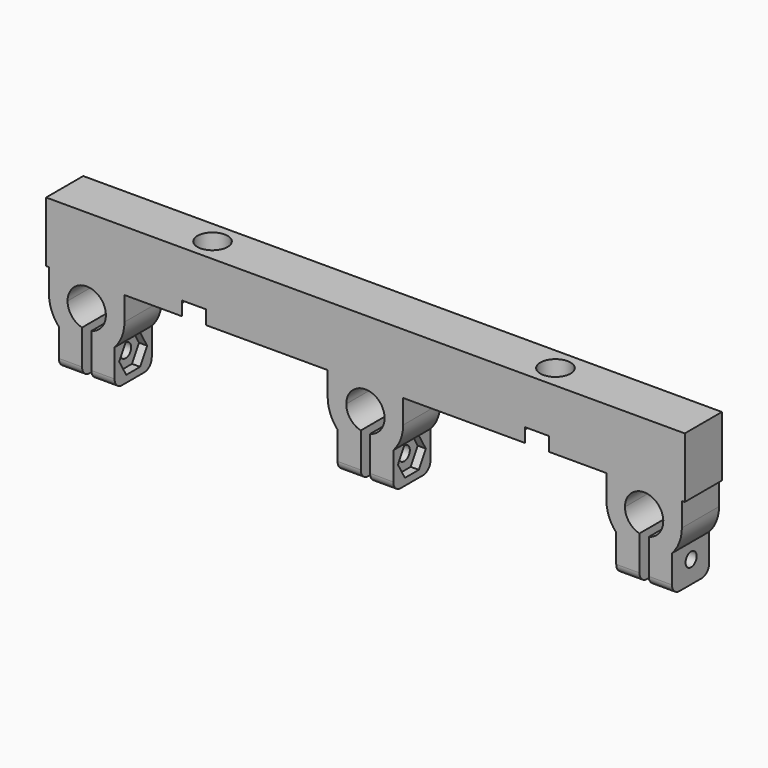
from build123d import *

# Parameters (mm, degrees)
F0_W      = 137.5
F0_H      = 10
F1_DEPTH  = 9
F3_DEPTH  = 10
F5_DEPTH  = 1.75
F7_DEPTH  = 1.75
F9_DEPTH  = 1.75
F10_R     = 1.5
F11_DEPTH = 134.751
F12_R     = 3.25
F13_DEPTH = 31.6046517502
F15_DEPTH = 134.751
F16_R     = 5.625
F16_R_2   = 3.25
F17_DEPTH = 3


with BuildPart() as f1:
    # F0 (on Top) → F1 (new body)
    with BuildSketch(Plane.XY):
        Rectangle(F0_W, F0_H)
    extrude(amount=F1_DEPTH)

    # F2 (on face) → F3 (join, through all)
    with BuildSketch(Plane(origin=(0, 5, 0), x_dir=(-1, 0, 0), z_dir=(0, 1, 0))):
        with BuildLine():
            Line((-61, -22.6036517502), (-61, -17.1882267114))
            ThreePointArc((-61, -17.1882267114), (-63.7309525503, -16.342729426), (-66, -14.6036517502))
            Line((-66, -14.6036517502), (-66, -22.6036517502))
            Line((-66, -22.6036517502), (-61, -22.6036517502))
        make_face()
        with BuildLine():
            Line((-54, -22.6036517502), (-54, -14.6036517502))
            ThreePointArc((-54, -14.6036517502), (-56.2690474497, -16.342729426), (-59, -17.1882267114))
            Line((-59, -17.1882267114), (-59, -22.6036517502))
            Line((-59, -22.6036517502), (-54, -22.6036517502))
        make_face()
        with BuildLine():
            Line((-1, -22.6036517502), (-1, -17.1882267114))
            ThreePointArc((-1, -17.1882267114), (-3.7309525503, -16.342729426), (-6, -14.6036517502))
            Line((-6, -14.6036517502), (-6, -22.6036517502))
            Line((-6, -22.6036517502), (-1, -22.6036517502))
        make_face()
        with BuildLine():
            ThreePointArc((6, -14.6036517502), (3.7309525503, -16.342729426), (1, -17.1882267114))
            Line((1, -17.1882267114), (1, -22.6036517502))
            Line((1, -22.6036517502), (6, -22.6036517502))
            Line((6, -22.6036517502), (6, -14.6036517502))
        make_face()
        with BuildLine():
            ThreePointArc((59, -17.1882267114), (56.2690474497, -16.342729426), (54, -14.6036517502))
            Line((54, -14.6036517502), (54, -22.6036517502))
            Line((54, -22.6036517502), (59, -22.6036517502))
            Line((59, -22.6036517502), (59, -17.1882267114))
        make_face()
        with BuildLine():
            ThreePointArc((66, -14.6036517502), (63.7309525503, -16.342729426), (61, -17.1882267114))
            Line((61, -17.1882267114), (61, -22.6036517502))
            Line((61, -22.6036517502), (66, -22.6036517502))
            Line((66, -22.6036517502), (66, -14.6036517502))
        make_face()
        with BuildLine():
            ThreePointArc((-1, -13.1269526484), (-2.5387620014, -5.8737982991), (4.125, -9.125))
            ThreePointArc((4.125, -9.125), (3.2512017009, -11.6637620014), (1, -13.1269526484))
            Line((1, -13.1269526484), (1, -17.1882267114))
            ThreePointArc((1, -17.1882267114), (3.7309525503, -16.342729426), (6, -14.6036517502))
            ThreePointArc((6, -14.6036517502), (7.5751443881, -12.0631648184), (8.125, -9.125))
            Line((8.125, -9.125), (8.125, -4))
            Line((8.125, -4), (51.875, -4))
            Line((51.875, -4), (51.875, -9.125))
            ThreePointArc((51.875, -9.125), (52.4248556119, -12.0631648184), (54, -14.6036517502))
            ThreePointArc((54, -14.6036517502), (56.2690474497, -16.342729426), (59, -17.1882267114))
            Line((59, -17.1882267114), (59, -13.1269526484))
            ThreePointArc((59, -13.1269526484), (57.4612379986, -5.8737982991), (64.125, -9.125))
            ThreePointArc((64.125, -9.125), (63.2512017009, -11.6637620014), (61, -13.1269526484))
            Line((61, -13.1269526484), (61, -17.1882267114))
            ThreePointArc((61, -17.1882267114), (63.7309525503, -16.342729426), (66, -14.6036517502))
            ThreePointArc((66, -14.6036517502), (67.5751443881, -12.0631648184), (68.125, -9.125))
            Line((68.125, -9.125), (68.125, -4))
            Line((68.125, -4), (68.75, -4))
            Line((68.75, -4), (68.75, 0))
            Line((68.75, 0), (-68.75, 0))
            Line((-68.75, 0), (-68.75, -4))
            Line((-68.75, -4), (-68.125, -4))
            Line((-68.125, -4), (-68.125, -9.125))
            ThreePointArc((-68.125, -9.125), (-67.5751443881, -12.0631648184), (-66, -14.6036517502))
            ThreePointArc((-66, -14.6036517502), (-63.7309525503, -16.342729426), (-61, -17.1882267114))
            Line((-61, -17.1882267114), (-61, -13.1269526484))
            ThreePointArc((-61, -13.1269526484), (-62.5387620014, -5.8737982991), (-55.875, -9.125))
            ThreePointArc((-55.875, -9.125), (-56.7487982991, -11.6637620014), (-59, -13.1269526484))
            Line((-59, -13.1269526484), (-59, -17.1882267114))
            ThreePointArc((-59, -17.1882267114), (-56.2690474497, -16.342729426), (-54, -14.6036517502))
            ThreePointArc((-54, -14.6036517502), (-52.4248556119, -12.0631648184), (-51.875, -9.125))
            Line((-51.875, -9.125), (-51.875, -4))
            Line((-51.875, -4), (-8.125, -4))
            Line((-8.125, -4), (-8.125, -9.125))
            ThreePointArc((-8.125, -9.125), (-7.5751443881, -12.0631648184), (-6, -14.6036517502))
            ThreePointArc((-6, -14.6036517502), (-3.7309525503, -16.342729426), (-1, -17.1882267114))
            Line((-1, -17.1882267114), (-1, -13.1269526484))
        make_face()
    extrude(amount=-F3_DEPTH)

    # F4 (on face) → F5 (cut)
    with BuildSketch(Plane(origin=(54, 0, 0), x_dir=(0, -1, 0), z_dir=(-1, 0, 0))):
        Polygon((3.7527767497, -17.8536517503), (1.8763883749, -14.6036517503), (-1.8763883749, -14.6036517503), (-3.7527767497, -17.8536517503), (-1.8763883749, -21.1036517503), (1.8763883749, -21.1036517503), align=None)
    extrude(amount=-F5_DEPTH, mode=Mode.SUBTRACT)

    # F6 (on face) → F7 (cut)
    with BuildSketch(Plane.YZ.offset(6)):
        Polygon((3.7527767497, -17.8536517503), (1.8763883748, -14.6036517501), (-1.8763883749, -14.6036517502), (-3.7527767497, -17.8536517503), (-1.8763883749, -21.1036517503), (1.8763883749, -21.1036517503), align=None)
    extrude(amount=-F7_DEPTH, mode=Mode.SUBTRACT)

    # F8 (on face) → F9 (cut)
    with BuildSketch(Plane.YZ.offset(-54)):
        Polygon((1.8763883748, -14.6036517502), (-1.8763883749, -14.6036517502), (-3.7527767497, -17.8536517503), (-1.8763883749, -21.1036517503), (1.8763883749, -21.1036517503), (3.7527767497, -17.8536517503), align=None)
    extrude(amount=-F9_DEPTH, mode=Mode.SUBTRACT)

    # F10 (on face) → F11 (cut, through all)
    with BuildSketch(Plane.YZ.offset(66)):
        with Locations((0.1443375673, -17.8536517503)):
            Circle(F10_R)
    extrude(amount=-F11_DEPTH, mode=Mode.SUBTRACT)

    # F12 (on face) → F13 (cut, through all)
    with BuildSketch(Plane.XY.offset(9)):
        with Locations((36.913, 0)):
            Circle(F12_R)
        with Locations((-36.913, 0)):
            Circle(F12_R)
    extrude(amount=-F13_DEPTH, mode=Mode.SUBTRACT)

    # F14 (on face) → F15 (cut, through all)
    with BuildSketch(Plane.YZ.offset(66)):
        with BuildLine():
            ThreePointArc((-3, -22.6036517502), (-4.4142135624, -22.0178653126), (-5, -20.6036517502))
            Line((-5, -20.6036517502), (-5, -22.6036517502))
            Line((-5, -22.6036517502), (-3, -22.6036517502))
        make_face()
        with BuildLine():
            ThreePointArc((5, -20.6036517502), (4.4142135624, -22.0178653126), (3, -22.6036517502))
            Line((3, -22.6036517502), (5, -22.6036517502))
            Line((5, -22.6036517502), (5, -20.6036517502))
        make_face()
    extrude(amount=-F15_DEPTH, mode=Mode.SUBTRACT)

    # F16 (on face) → F17 (cut)
    with BuildSketch(Plane(origin=(0, 0, -4), x_dir=(1, 0, 0), z_dir=(0, 0, -1))):
        with Locations((-36.913, 0)):
            Circle(F16_R)
        with Locations((-36.913, 0)):
            Circle(F16_R_2, mode=Mode.SUBTRACT)
        with Locations((36.913, 0)):
            Circle(F16_R)
        with Locations((36.913, 0)):
            Circle(F16_R_2, mode=Mode.SUBTRACT)
    extrude(amount=-F17_DEPTH, mode=Mode.SUBTRACT)


solid = f1.part
